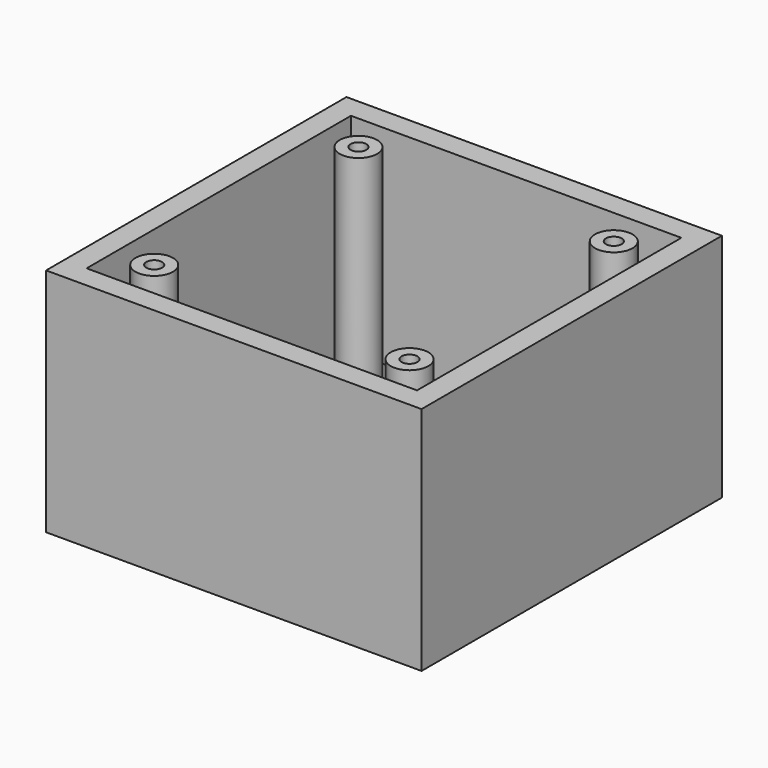
from build123d import *

# Parameters (mm, degrees)
SKETCH_W      = 50
SKETCH_H      = 50
PAD_DEPTH     = 3
SKETCH001_W   = 50
SKETCH001_H   = 50
SKETCH001_W_2 = 44
SKETCH001_H_2 = 44
PAD001_DEPTH  = 27.7
SKETCH002_R   = 2.5
PAD002_DEPTH  = 27.7
SKETCH003_R   = 1.05
HOLE_DEPTH    = 25
HOLE_TIPS_R   = 1.05


with BuildPart() as part:
    # Sketch → Pad (new body)
    with BuildSketch(Plane.XY):
        Rectangle(SKETCH_W, SKETCH_H)
    extrude(amount=PAD_DEPTH)

    # Sketch001 (on Face6 of Pad) → Pad001 (join)
    with BuildSketch(Plane.XY.offset(3)):
        Rectangle(SKETCH001_W, SKETCH001_H)
        Rectangle(SKETCH001_W_2, SKETCH001_H_2, mode=Mode.SUBTRACT)
    extrude(amount=PAD001_DEPTH)

    # Sketch002 (on Face15 of Pad001) → Pad002 (join)
    with BuildSketch(Plane.XY.offset(3)):
        with Locations((-17, 17)):
            Circle(SKETCH002_R)
        with Locations((17, 17)):
            Circle(SKETCH002_R)
        with Locations((17, -17)):
            Circle(SKETCH002_R)
        with Locations((-17, -17)):
            Circle(SKETCH002_R)
    extrude(amount=PAD002_DEPTH)

    # Sketch003 (on Face22 of Pad002) → Hole (cut)
    with BuildSketch(Plane.XY.offset(30.7)):
        with Locations((-17, 17)):
            Circle(SKETCH003_R)
        with Locations((17, 17)):
            Circle(SKETCH003_R)
        with Locations((-17, -17)):
            Circle(SKETCH003_R)
        with Locations((17, -17)):
            Circle(SKETCH003_R)
    extrude(amount=-HOLE_DEPTH, mode=Mode.SUBTRACT)

    # Hole tips → Hole tip 1 section 0
    with BuildSketch(Plane.XY.offset(5.7), mode=Mode.PRIVATE) as hole_tip_1_s0:
        with Locations((-17, 17)):
            Circle(HOLE_TIPS_R)
    loft([hole_tip_1_s0.sketch, Vertex(-17, 17, 5.069096)], mode=Mode.SUBTRACT)

    # Hole tips → Hole tip 2 section 0
    with BuildSketch(Plane.XY.offset(5.7), mode=Mode.PRIVATE) as hole_tip_2_s0:
        with Locations((17, 17)):
            Circle(HOLE_TIPS_R)
    loft([hole_tip_2_s0.sketch, Vertex(17, 17, 5.069096)], mode=Mode.SUBTRACT)

    # Hole tips → Hole tip 3 section 0
    with BuildSketch(Plane.XY.offset(5.7), mode=Mode.PRIVATE) as hole_tip_3_s0:
        with Locations((-17, -17)):
            Circle(HOLE_TIPS_R)
    loft([hole_tip_3_s0.sketch, Vertex(-17, -17, 5.069096)], mode=Mode.SUBTRACT)

    # Hole tips → Hole tip 4 section 0
    with BuildSketch(Plane.XY.offset(5.7), mode=Mode.PRIVATE) as hole_tip_4_s0:
        with Locations((17, -17)):
            Circle(HOLE_TIPS_R)
    loft([hole_tip_4_s0.sketch, Vertex(17, -17, 5.069096)], mode=Mode.SUBTRACT)


solid = part.part
